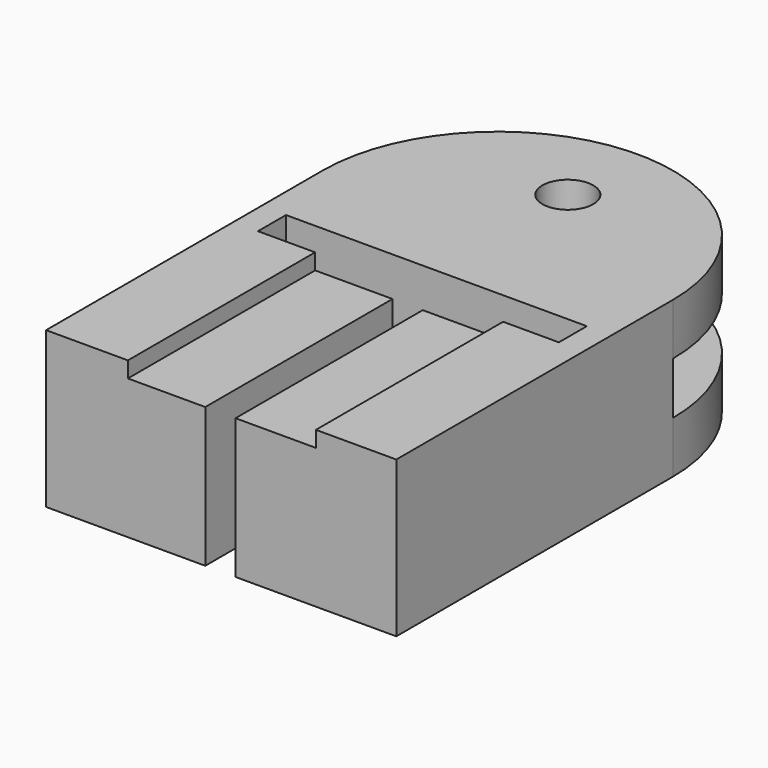
from build123d import *

# Parameters (mm, degrees)
F0_R      = 1.6
F1_DEPTH  = 9.78
F2_W      = 11.0329598772
F2_H      = 3.28
F3_DEPTH  = 22
F4_W      = 5.05
F4_H      = 15.2
F4_W_2    = 4.86
F5_DEPTH  = 1
F6_R      = 1.6
F7_DEPTH  = 3.26
F9_R      = 1.6
F10_DEPTH = 3.26
F11_DEPTH = 0.5


with BuildPart() as f1:
    # F0 (on Top) → F1 (new body)
    with BuildSketch(Plane.XY):
        with BuildLine():
            Line((-33.4101816105, 245.5555587423), (-33.4101816105, 223.8355587423))
            Line((-33.4101816105, 223.8355587423), (-23.4101816105, 223.8355587423))
            Line((-23.4101816105, 223.8355587423), (-23.4101816105, 239.0355587423))
            Line((-23.4101816105, 239.0355587423), (-31.8601816105, 239.0355587423))
            Line((-31.8601816105, 239.0355587423), (-31.8601816105, 240.7355587423))
            Line((-31.8601816105, 240.7355587423), (-23.4101816105, 240.7355587423))
            Line((-23.4101816105, 240.7355587423), (-21.5101816105, 240.7355587423))
            Line((-21.5101816105, 240.7355587423), (-12.9601816105, 240.7355587423))
            Line((-12.9601816105, 240.7355587423), (-12.9601816105, 239.0355587423))
            Line((-12.9601816105, 239.0355587423), (-21.5101816105, 239.0355587423))
            Line((-21.5101816105, 239.0355587423), (-21.5101816105, 223.8355587423))
            Line((-21.5101816105, 223.8355587423), (-11.4101816105, 223.8355587423))
            Line((-11.4101816105, 223.8355587423), (-11.4101816105, 245.5555587423))
            ThreePointArc((-11.4101816105, 245.5555587423), (-22.4101816105, 256.5555587423), (-33.4101816105, 245.5555587423))
        make_face()
        with Locations((-22.4101816105, 251.0555587423)):
            Circle(F0_R, mode=Mode.SUBTRACT)
    extrude(amount=F1_DEPTH)

    # F2 (on face) → F3 (cut)
    with BuildSketch(Plane(origin=(-33.4101816105, 0, 0), x_dir=(0, -1, 0), z_dir=(-1, 0, 0))):
        with Locations((-251.0720386809, 4.89)):
            Rectangle(F2_W, F2_H)
    extrude(amount=-F3_DEPTH, mode=Mode.SUBTRACT)

    # F4 (on face) → F5 (cut)
    with BuildSketch(Plane.XY.offset(9.78)):
        with Locations((-18.9851816105, 231.4355587423)):
            Rectangle(F4_W, F4_H)
        with Locations((-25.8401816105, 231.4355587423)):
            Rectangle(F4_W_2, F4_H)
    extrude(amount=-F5_DEPTH, mode=Mode.SUBTRACT)

    # F9 (on face) → F10 (cut)
    with BuildSketch(Plane(origin=(0, 0, 0), x_dir=(1, 0, 0), z_dir=(0, 0, -1))):
        Polygon((-22.4101816105, -254.0555587423), (-19.8121053991, -252.5555587423), (-19.8121053991, -249.5555587423), (-22.4101816105, -248.0555587423), (-25.0082578218, -249.5555587423), (-25.0082578218, -252.5555587423), align=None)
        with Locations((-22.4101816105, -251.0555587423)):
            Circle(F9_R, mode=Mode.SUBTRACT)
    extrude(amount=-F10_DEPTH, mode=Mode.SUBTRACT)

    # F11 (cut): faces of the model
    f11_faces = [f1.faces().sort_by_distance(p)[0] for p in [
        (-27.7473388211, 239.0355587423, 4.6156990782),
        (-17.1227008611, 239.0355587423, 4.6078340058),
    ]]
    extrude(f11_faces, amount=-F11_DEPTH, mode=Mode.SUBTRACT)


with BuildPart() as f7:
    # F6 (on face) → F7 (new body)
    with BuildSketch(Plane.XY.offset(3.25)):
        with BuildLine():
            Line((-11.4101816105, 334.1924881189), (-33.4101816105, 334.1924881189))
            Line((-33.4101816105, 334.1924881189), (-33.4101816105, 290.1924881189))
            ThreePointArc((-33.4101816105, 290.1924881189), (-22.4101816105, 279.1924881189), (-11.4101816105, 290.1924881189))
            Line((-11.4101816105, 290.1924881189), (-11.4101816105, 334.1924881189))
        make_face()
        with Locations((-22.4101816105, 284.5924881189)):
            Circle(F6_R, mode=Mode.SUBTRACT)
    extrude(amount=F7_DEPTH)


solid = f1.part
